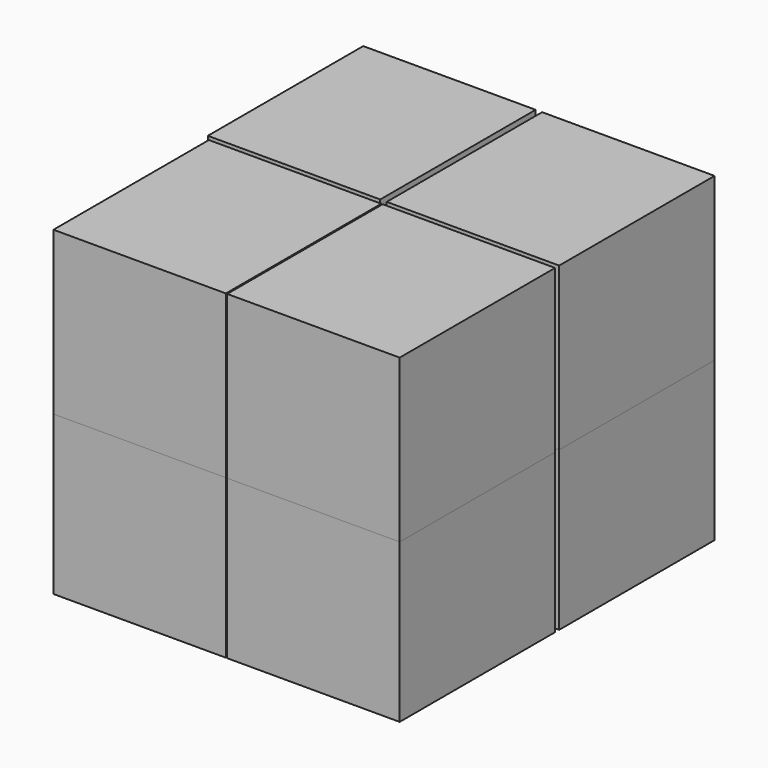
from build123d import *

# Parameters (mm, degrees)
F0_W     = 33.731028
F0_H     = 31.739037
F1_DEPTH = 38


with BuildPart() as f1:
    # F0 (on Front) → F1 (new body)
    with BuildSketch(Plane.XZ):
        with Locations((-16.865514, 15.869518)):
            Rectangle(F0_W, F0_H)
    extrude(amount=F1_DEPTH)


with BuildPart() as f2_1:
    # F2: copy of F1
    add(f1.part.moved(Location((34, 0, 0))))


with BuildPart() as f3_1:
    # F3: copy of F2_1
    add(f2_1.part.moved(Location((0, 0, 31))))


with BuildPart() as f4_1:
    # F4: copy of F2_1
    add(f2_1.part.moved(Location((0, 39, 0))))


with BuildPart() as f5_1:
    # F5: copy of F4_1
    add(f4_1.part.moved(Location((-35, 0, 0))))


with BuildPart() as f6_1:
    # F6: copy of F4_1
    add(f4_1.part.moved(Location((0, 0, 31))))


with BuildPart() as f7_1:
    # F7: copy of F5_1
    add(f5_1.part.moved(Location((0, 0, 31))))


with BuildPart() as f7_2:
    # F7: copy of F1
    add(f1.part.moved(Location((0, 0, 31))))


solid = Compound([f1.part, f2_1.part, f3_1.part, f4_1.part, f5_1.part, f6_1.part, f7_1.part, f7_2.part])
